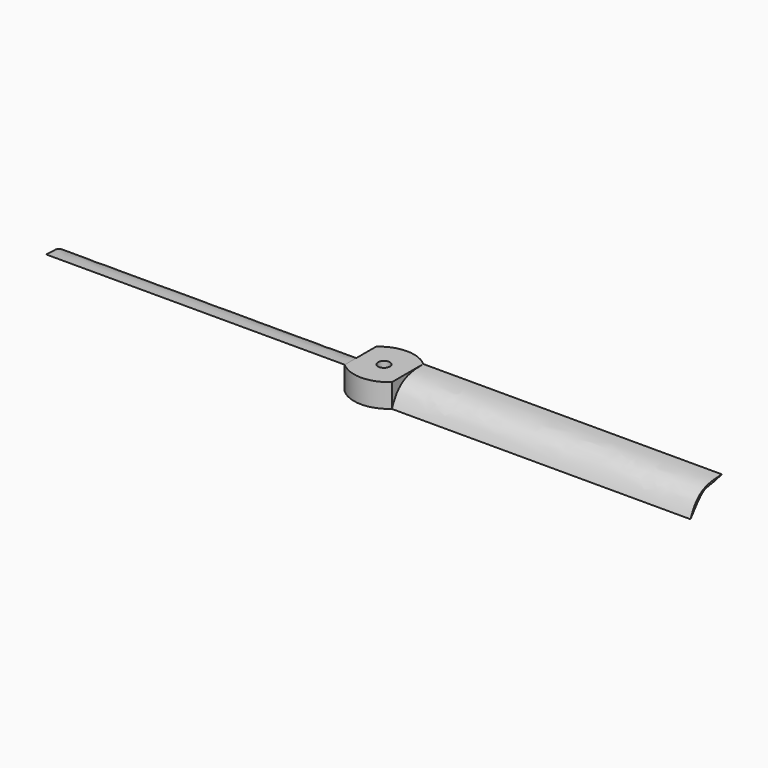
from build123d import *

# Parameters (mm, degrees)
F0_R     = 0.75
F1_DEPTH = 3
F3_DEPTH = 38
F5_DEPTH = 38


with BuildPart() as f1:
    # F0 (on Top) → F1 (new body)
    with BuildSketch(Plane.XY):
        with BuildLine():
            ThreePointArc((-3, -2.5), (0, -3.6458980338), (3, -2.5))
            Line((3, -2.5), (41, -2.5))
            Line((41, -2.5), (41, 2.5))
            Line((41, 2.5), (3, 2.5))
            ThreePointArc((3, 2.5), (0, 3.6458980338), (-3, 2.5))
            Line((-3, 2.5), (-41, 2.5))
            Line((-41, 2.5), (-41, -2.5))
            Line((-41, -2.5), (-3, -2.5))
        make_face()
        Circle(F0_R, mode=Mode.SUBTRACT)
    extrude(amount=F1_DEPTH)

    # F2 (on face) → F3 (cut)
    with BuildSketch(Plane(origin=(-41, 0, 0), x_dir=(0, -1, 0), z_dir=(-1, 0, 0))):
        with BuildLine():
            Line((-2.5, 3), (-2.5, 0))
            add(Edge.make_bspline(
                [(2.5, 3), (0.3525893576, 2.8383196332), (0.498545412, 3.4799471032), (-2.5, 0)],
                knots=[0, 0, 0, 0, 5.8309518948, 5.8309518948, 5.8309518948, 5.8309518948], degree=3))
            Line((2.5, 3), (-2.5, 3))
        make_face()
        with BuildLine():
            add(Edge.make_bspline(
                [(2.5, 3), (-0.9475729289, 1.7408737913), (-1.6942867384, 0.1836255688), (-2.5, 0)],
                knots=[0, 0, 0, 0, 5.8309518948, 5.8309518948, 5.8309518948, 5.8309518948], degree=3))
            Line((-2.5, 0), (2.5, 0))
            Line((2.5, 0), (2.5, 3))
        make_face()
    extrude(amount=-F3_DEPTH, mode=Mode.SUBTRACT)

    # F4 (on face) → F5 (cut)
    with BuildSketch(Plane.YZ.offset(41)):
        with BuildLine():
            Line((-2.5, 3), (-2.5, 0))
            add(Edge.make_bspline(
                [(2.5, 3), (-0.5268059229, 3), (-1.5946542285, 2.181884367), (-2.5, 0)],
                knots=[0, 0, 0, 0, 5.8309518948, 5.8309518948, 5.8309518948, 5.8309518948], degree=3))
            Line((2.5, 3), (-2.5, 3))
        make_face()
        with BuildLine():
            add(Edge.make_bspline(
                [(2.5, 3), (-0.5751613621, 2.0969400648), (0, 3.3260041473), (-2.5, 0)],
                knots=[0, 0, 0, 0, 5.8309518948, 5.8309518948, 5.8309518948, 5.8309518948], degree=3))
            Line((-2.5, 0), (2.5, 0))
            Line((2.5, 0), (2.5, 3))
        make_face()
    extrude(amount=-F5_DEPTH, mode=Mode.SUBTRACT)


solid = f1.part
